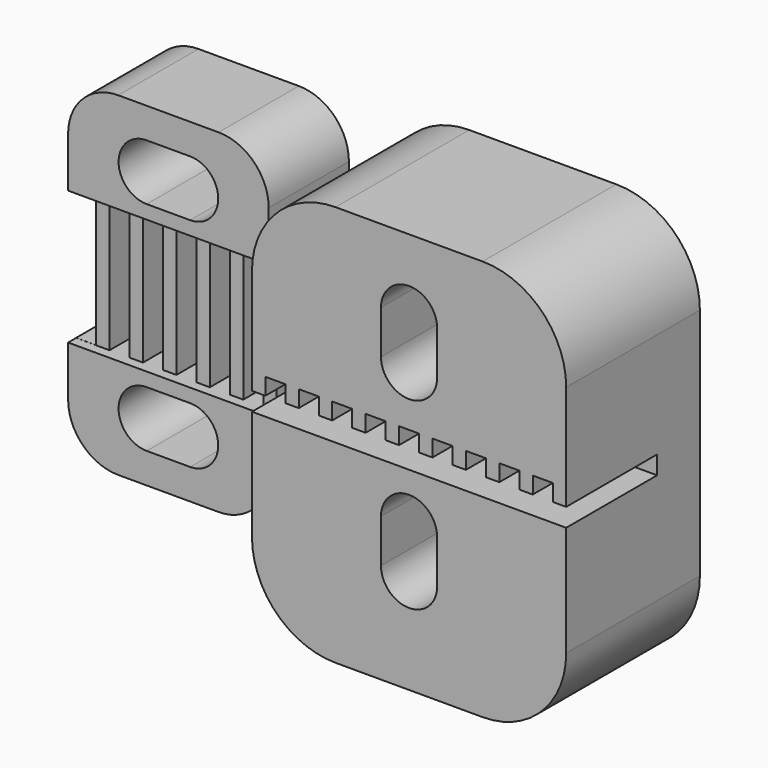
from build123d import *

# Parameters (mm, degrees)
BOX002_W        = 12
BOX002_H        = 6
BOX002_DEPTH    = 20
POCKET015_DEPTH = 6.001
SKETCH013_W     = 0.6
SKETCH013_H     = 8
POCKET016_DEPTH = 12.001
SKETCH011_W     = 1.2
SKETCH011_H     = 8
POCKET017_DEPTH = 1.6
FILLET006_R     = 3
BOX003_W        = 18.8
BOX003_H        = 10
BOX003_DEPTH    = 24
POCKET_DEPTH    = 10.001
SKETCH014_W     = 20.407059
SKETCH014_H     = 1.1
POCKET013_DEPTH = 6.8
SKETCH015_W     = 1.2
SKETCH015_H     = 7
POCKET014_DEPTH = 1
FILLET_R        = 5


with BuildPart() as fillet006:
    # Box002 → Box002 (new body)
    with BuildSketch(Plane(origin=(28, 40, 0), x_dir=(1, 0, 0), z_dir=(0, 0, 1))):
        with Locations((6, 3)):
            Rectangle(BOX002_W, BOX002_H)
    extrude(amount=BOX002_DEPTH)

    # Sketch012 → Pocket015 (cut, through all)
    with BuildSketch(Plane(origin=(28, 46, 0), x_dir=(-1, 0, 0), z_dir=(0, 1, 0))):
        with BuildLine():
            ThreePointArc((-7.3, 18.18), (-8.98, 16.5), (-7.3, 14.82))
            Line((-7.3, 14.82), (-4.7, 14.82))
            ThreePointArc((-4.7, 14.82), (-3.02, 16.5), (-4.7, 18.18))
            Line((-7.3, 18.18), (-4.7, 18.18))
        make_face()
        with BuildLine():
            ThreePointArc((-7.3, 5.18), (-8.98, 3.5), (-7.3, 1.82))
            Line((-7.3, 1.82), (-4.7, 1.82))
            ThreePointArc((-4.7, 1.82), (-3.02, 3.5), (-4.7, 5.18))
            Line((-7.3, 5.18), (-4.7, 5.18))
        make_face()
    extrude(amount=-POCKET015_DEPTH, mode=Mode.SUBTRACT)

    # Sketch013 → Pocket016 (cut, through all)
    with BuildSketch(Plane(origin=(28, 40, 0), x_dir=(0, -1, 0), z_dir=(-1, 0, 0))):
        with Locations((-0.3, 10)):
            Rectangle(SKETCH013_W, SKETCH013_H)
    extrude(amount=-POCKET016_DEPTH, mode=Mode.SUBTRACT)

    # Sketch011 → Pocket017 (cut)
    with BuildSketch(Plane(origin=(28, 40.6, 0), x_dir=(1, 0, 0), z_dir=(0, -1, 0))):
        with Locations((6.599989, 10)):
            Rectangle(SKETCH011_W, SKETCH011_H)
        with Locations((4.599989, 10)):
            Rectangle(SKETCH011_W, SKETCH011_H)
        with Locations((2.599989, 10)):
            Rectangle(SKETCH011_W, SKETCH011_H)
        with Locations((0.6, 10.00427)):
            Rectangle(SKETCH011_W, SKETCH011_H)
        with Locations((8.599989, 10)):
            Rectangle(SKETCH011_W, SKETCH011_H)
        with Locations((10.599989, 10)):
            Rectangle(SKETCH011_W, SKETCH011_H)
    extrude(amount=-POCKET017_DEPTH, mode=Mode.SUBTRACT)

    # Fillet006
    fillet006_edges = [fillet006.edges().sort_by_distance(p)[0] for p in [
        (28, 43, 20),
        (28, 43, 0),
        (40, 43, 20),
        (40, 43, 0),
    ]]
    fillet(fillet006_edges, radius=FILLET006_R)


with BuildPart() as fillet_body:
    # Box003 → Box003 (new body)
    with BuildSketch(Plane(origin=(61, 46, -3), x_dir=(-1, 0, 0), z_dir=(0, 0, 1))):
        with Locations((9.4, 5)):
            Rectangle(BOX003_W, BOX003_H)
    extrude(amount=BOX003_DEPTH)

    # Sketch → Pocket (cut, through all)
    with BuildSketch(Plane(origin=(61, 46, -3), x_dir=(-1, 0, 0), z_dir=(0, 1, 0))):
        with BuildLine():
            ThreePointArc((11.08, 19.6), (9.4, 21.28), (7.72, 19.6))
            Line((7.72, 19.6), (7.72, 17))
            ThreePointArc((7.72, 17), (9.4, 15.32), (11.08, 17))
            Line((11.08, 19.6), (11.08, 17))
        make_face()
        with BuildLine():
            ThreePointArc((11.08, 8.6), (9.4, 10.28), (7.72, 8.6))
            Line((7.72, 8.6), (7.72, 6))
            ThreePointArc((7.72, 6), (9.4, 4.32), (11.08, 6))
            Line((11.08, 8.6), (11.08, 6))
        make_face()
    extrude(amount=-POCKET_DEPTH, mode=Mode.SUBTRACT)

    # Sketch014 → Pocket013 (cut)
    with BuildSketch(Plane(origin=(61, 36, -3), x_dir=(1, 0, 0), z_dir=(0, -1, 0))):
        with Locations((-9.299994, 12.15)):
            Rectangle(SKETCH014_W, SKETCH014_H)
    extrude(amount=-POCKET013_DEPTH, mode=Mode.SUBTRACT)

    # Sketch015 → Pocket014 (cut)
    with BuildSketch(Plane(origin=(61, 46, 9.7), x_dir=(-1, 0, 0), z_dir=(0, 0, -1))):
        with Locations((1.4, -6.7)):
            Rectangle(SKETCH015_W, SKETCH015_H)
        with Locations((3.4, -6.7)):
            Rectangle(SKETCH015_W, SKETCH015_H)
        with Locations((5.4, -6.7)):
            Rectangle(SKETCH015_W, SKETCH015_H)
        with Locations((7.4, -6.7)):
            Rectangle(SKETCH015_W, SKETCH015_H)
        with Locations((9.4, -6.7)):
            Rectangle(SKETCH015_W, SKETCH015_H)
        with Locations((11.4, -6.7)):
            Rectangle(SKETCH015_W, SKETCH015_H)
        with Locations((13.4, -6.7)):
            Rectangle(SKETCH015_W, SKETCH015_H)
        with Locations((15.4, -6.7)):
            Rectangle(SKETCH015_W, SKETCH015_H)
        with Locations((17.4, -6.7)):
            Rectangle(SKETCH015_W, SKETCH015_H)
    extrude(amount=-POCKET014_DEPTH, mode=Mode.SUBTRACT)

    # Fillet
    fillet_edges = [fillet_body.edges().sort_by_distance(p)[0] for p in [
        (42.2, 41, 21),
        (61, 41, 21),
        (61, 41, -3),
        (42.2, 41, -3),
    ]]
    fillet(fillet_edges, radius=FILLET_R)


solid = Compound([fillet006.part, fillet_body.part])
